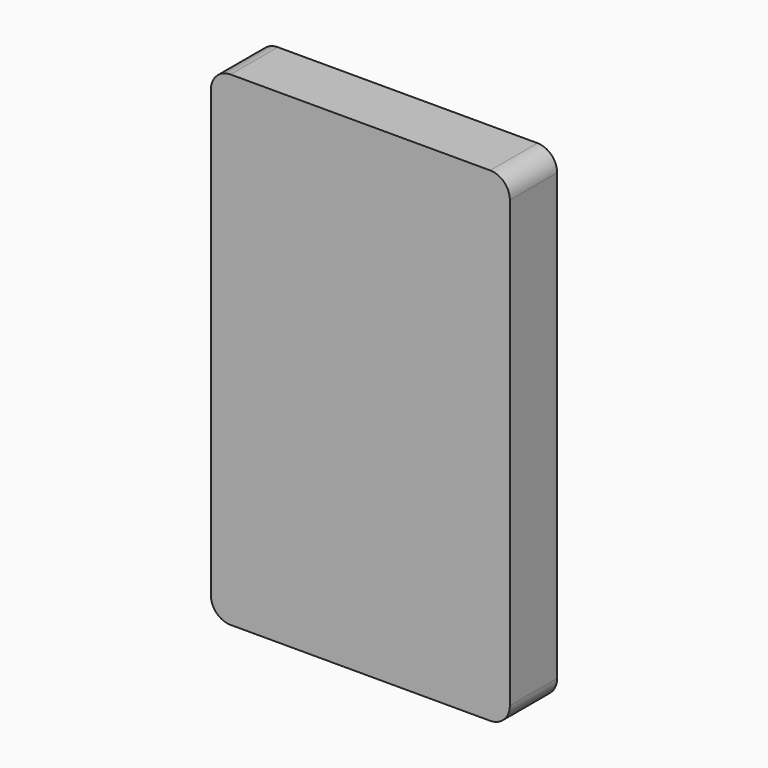
from build123d import *

# Parameters (mm, degrees)
F0_W     = 38.56438
F0_H     = 62.500886
F1_DEPTH = 7.62
F2_R     = 2.54
F3_W     = 33.48438
F3_H     = 20.629584
F4_DEPTH = 1.27


with BuildPart() as f1:
    # F0 (on Front) → F1 (new body)
    with BuildSketch(Plane.XZ):
        Rectangle(F0_W, F0_H)
    extrude(amount=F1_DEPTH)

    # F2
    f2_edges = [f1.edges().sort_by_distance(p)[0] for p in [
        (19.28219, -3.81, 31.250443),
        (-19.28219, -3.81, 31.250443),
        (19.28219, -3.81, -31.250443),
        (-19.28219, -3.81, -31.250443),
    ]]
    fillet(f2_edges, radius=F2_R)

    # F3 (on face) → F4 (join)
    with BuildSketch(Plane.XZ.offset(7.62)):
        with Locations((0, 18.395651)):
            Rectangle(F3_W, F3_H)
        with BuildLine():
            ThreePointArc((-19.28219, -28.710443), (-18.538241, -30.506495), (-16.74219, -31.250443))
            Line((-16.74219, -31.250443), (16.74219, -31.250443))
            ThreePointArc((16.74219, -31.250443), (18.538241, -30.506495), (19.28219, -28.710443))
            Line((19.28219, -28.710443), (19.28219, 28.710443))
            ThreePointArc((19.28219, 28.710443), (18.538241, 30.506495), (16.74219, 31.250443))
            Line((16.74219, 31.250443), (-16.74219, 31.250443))
            ThreePointArc((-16.74219, 31.250443), (-18.538241, 30.506495), (-19.28219, 28.710443))
            Line((-19.28219, 28.710443), (-19.28219, -28.710443))
        make_face()
        with Locations((0, 18.395651)):
            Rectangle(F3_W, F3_H, mode=Mode.SUBTRACT)
    extrude(amount=-F4_DEPTH)


solid = f1.part
